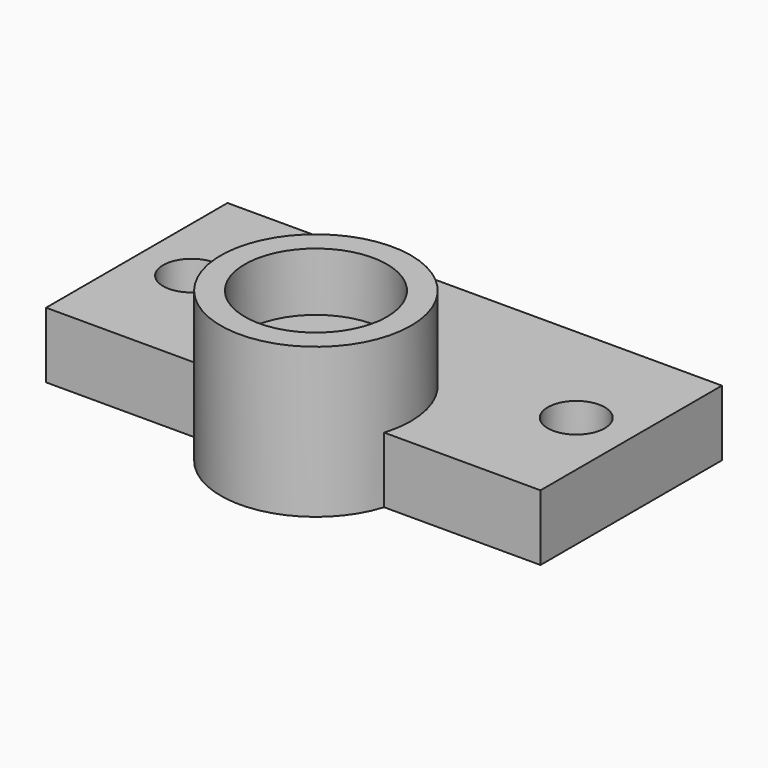
from build123d import *

# Parameters (mm, degrees)
F0_R     = 17.765
F0_R_2   = 13.28
F1_DEPTH = 27.96
F2_START = 11.06
F0_R_3   = 4.91
F2_DEPTH = 5.99
F3_R     = 5.32
F4_DEPTH = 12.28
F3_R_2   = 3.41
F5_DEPTH = 4.8


with BuildPart() as f1:
    # F0 (on Top) → F1 (new body)
    with BuildSketch(Plane.XY):
        Circle(F0_R)
        Circle(F0_R_2, mode=Mode.SUBTRACT)
    extrude(amount=F1_DEPTH)

    # F0 (on Top) → F2 (join)
    with BuildSketch(Plane.XY.offset(F2_START)):
        Circle(F0_R_2)
        Circle(F0_R_3, mode=Mode.SUBTRACT)
    extrude(amount=F2_DEPTH)

    # F3 (on Top) → F4 (join)
    with BuildSketch(Plane.XY):
        with BuildLine():
            Line((46.155, -5.28), (46.155, 37.06))
            Line((46.155, 37.06), (-46.155, 37.06))
            Line((-46.155, 37.06), (-46.155, -5.28))
            Line((-46.155, -5.28), (-12.1852369694, -5.28))
            ThreePointArc((-12.1852369694, -5.28), (-2.6961503154, 13.0034292968), (13.28, 0))
            ThreePointArc((13.28, 0), (13.0034292968, -2.6961503154), (12.1852369694, -5.28))
            Line((12.1852369694, -5.28), (46.155, -5.28))
        make_face()
        with Locations((-35.915, 15.87)):
            Circle(F3_R, mode=Mode.SUBTRACT)
        with Locations((35.915, 15.87)):
            Circle(F3_R, mode=Mode.SUBTRACT)
    extrude(amount=F4_DEPTH)

    # F3 (on Top) → F5 (join)
    with BuildSketch(Plane.XY):
        with Locations((-35.915, 15.87)):
            Circle(F3_R)
        with Locations((-35.915, 15.87)):
            Circle(F3_R_2, mode=Mode.SUBTRACT)
        with Locations((35.915, 15.87)):
            Circle(F3_R)
        with Locations((35.915, 15.87)):
            Circle(F3_R_2, mode=Mode.SUBTRACT)
    extrude(amount=F5_DEPTH)


solid = f1.part
